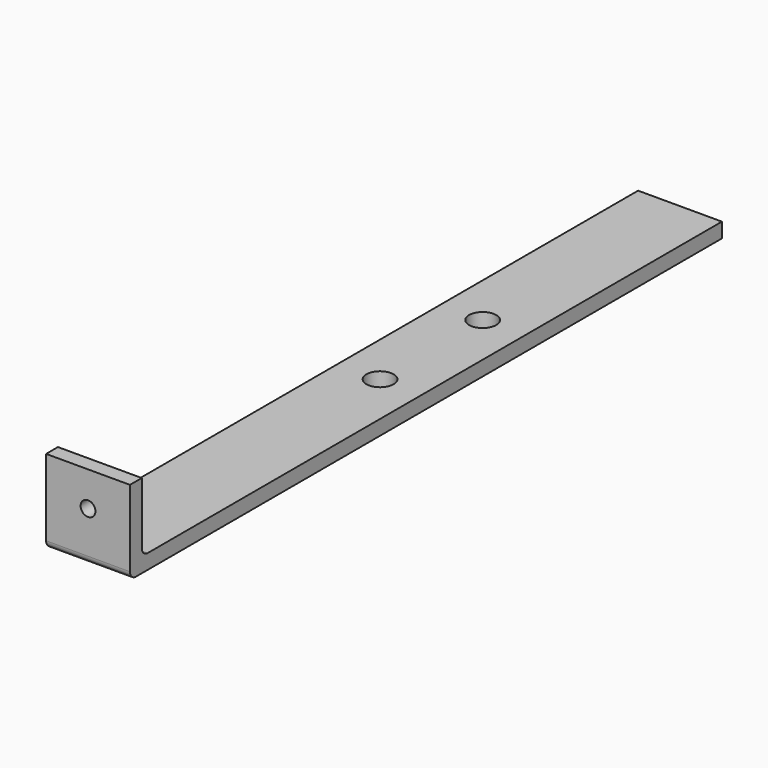
from build123d import *

# Parameters (mm, degrees)
F0_W      = 17
F0_H      = 3
F1_DEPTH  = 14
F0_H_2    = 147
F1_FACE_W = 17
F1_FACE_H = 3
F2_DEPTH  = 3
F3_R      = 1.5
F4_DEPTH  = 25
F5_R      = 2.75
F6_DEPTH  = 25
F7_R      = 1.5


with BuildPart() as f1:
    # F0 (on Top) → F1 (new body)
    with BuildSketch(Plane.XY):
        with Locations((0, -73.5)):
            Rectangle(F0_W, F0_H)
    extrude(amount=F1_DEPTH)

    # F0 (on Top) + F1_face (on face) → F2 (join)
    with BuildSketch(Plane.XY):
        with Locations((0, 1.5)):
            Rectangle(F0_W, F0_H_2)
    with BuildSketch(Plane(origin=(0, -73.5, 0), x_dir=(1, 0, 0), z_dir=(0, 0, -1))):
        Rectangle(F1_FACE_W, F1_FACE_H)
    extrude(amount=-F2_DEPTH, dir=(0, 0, 1))

    # F3 (on face) → F4 (cut)
    with BuildSketch(Plane(origin=(0, -72, 0), x_dir=(-1, 0, 0), z_dir=(0, 1, 0))):
        with Locations((0, 7)):
            Circle(F3_R)
    extrude(amount=-F4_DEPTH, mode=Mode.SUBTRACT)

    # F5 (on face) → F6 (cut)
    with BuildSketch(Plane.XY):
        with Locations((0, -1)):
            Circle(F5_R)
        with Locations((0, 25)):
            Circle(F5_R)
    extrude(amount=-F6_DEPTH, mode=Mode.SUBTRACT)

    # F7
    f7_edges = [f1.edges().sort_by_distance(p)[0] for p in [
        (0, -75, -3),
        (0, -72, 0),
    ]]
    fillet(f7_edges, radius=F7_R)


solid = f1.part
